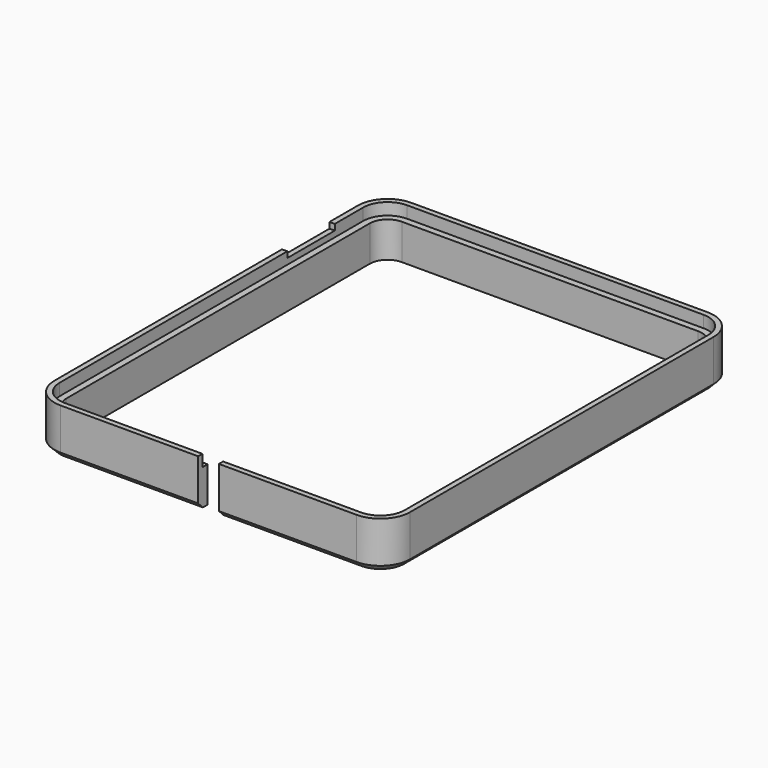
from build123d import *

# Parameters (mm, degrees)
SKETCH048_W      = 3.5
SKETCH048_H      = 4
EXTRUDE045_DEPTH = 8
SKETCH044_W      = 4
SKETCH044_H      = 10
EXTRUDE041_DEPTH = 1


with BuildPart() as extrude045:
    # Sketch048 → Extrude045 (new body)
    with BuildSketch(Plane.XY):
        with Locations((0, -36)):
            Rectangle(SKETCH048_W, SKETCH048_H)
    extrude(amount=EXTRUDE045_DEPTH)


with BuildPart() as bevel004:
    # Sweep002: sweep along a path in Sketch041
    with BuildLine(Plane(origin=(0, 0, -2), x_dir=(1, 0, 0), z_dir=(0, 0, -1))) as sweep002_path:
        Line((-25, 35), (25, 35))
        ThreePointArc((25, 35), (27.12132, 34.12132), (28, 32))
        Line((28, 32), (28, -32))
        ThreePointArc((28, -32), (27.12132, -34.12132), (25, -35))
        Line((25, -35), (-25, -35))
        ThreePointArc((-25, -35), (-27.12132, -34.12132), (-28, -32))
        Line((-28, -32), (-28, 32))
        ThreePointArc((-28, 32), (-27.12132, 34.12132), (-25, 35))
    # Sketch040 → Sweep002 (sweep)
    with BuildSketch(Plane.XZ):
        Polygon((-28, 11), (-30, 9), (-30, 1), (-28, -1), (-28, -2), (-33, -2), (-33, 12), (-28, 12), align=None)
    sweep(path=sweep002_path.line)


with BuildPart() as compound:
    # Sketch044 → Extrude041 (new body)
    with BuildSketch(Plane.XY.offset(7)):
        with Locations((-29, 21)):
            Rectangle(SKETCH044_W, SKETCH044_H)
    extrude(amount=EXTRUDE041_DEPTH)

    # Compound: union bevel004
    add(bevel004.part)


with BuildPart() as cut039:
    # Sweep001: sweep along a path in Sketch038
    with BuildLine(Plane(origin=(0, 0, 0), x_dir=(1, 0, 0), z_dir=(0, 0, -1))) as sweep001_path:
        Line((-25, 35), (25, 35))
        ThreePointArc((25, 35), (27.12132, 34.12132), (28, 32))
        Line((28, 32), (28, -32))
        ThreePointArc((28, -32), (27.12132, -34.12132), (25, -35))
        Line((25, -35), (-25, -35))
        ThreePointArc((-25, -35), (-27.12132, -34.12132), (-28, -32))
        Line((-28, -32), (-28, 32))
        ThreePointArc((-28, 32), (-27.12132, 34.12132), (-25, 35))
    # Sketch037 → Sweep001 (sweep)
    with BuildSketch(Plane(origin=(0, 0, 0), x_dir=(-1, 0, 0), z_dir=(0, 1, 0))):
        Polygon((-30, 8), (-29.1, 8), (-29.1, 6), (-28, 6), (-28, 0), (-30, 0), align=None)
    sweep(path=sweep001_path.line)

    # Cut037: cut Compound
    add(compound.part, mode=Mode.SUBTRACT)

    # Cut039: cut Extrude045
    add(extrude045.part, mode=Mode.SUBTRACT)


solid = cut039.part
